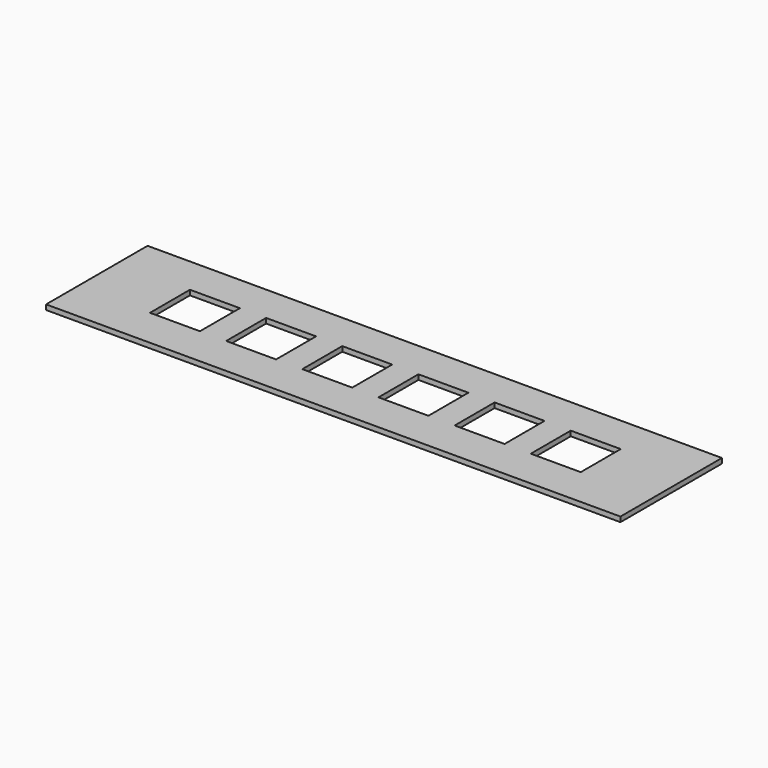
from build123d import *

# Parameters (mm, degrees)
BOX_W        = 115
BOX_H        = 25.4
BOX_DEPTH    = 1
SKETCH_W     = 10
SKETCH_H     = 10
POCKET_DEPTH = 1.001


with BuildPart() as part:
    # Box → Box (new body)
    with BuildSketch(Plane.XY):
        with Locations((57.5, 12.7)):
            Rectangle(BOX_W, BOX_H)
    extrude(amount=BOX_DEPTH)

    # Sketch (on Face6 of BaseFeature) → Pocket (cut, through all)
    with BuildSketch(Plane.XY.offset(1)):
        with Locations((19.46749, 12.921716)):
            Rectangle(SKETCH_W, SKETCH_H)
        with Locations((34.726053, 12.90977)):
            Rectangle(SKETCH_W, SKETCH_H)
        with Locations((49.984616, 12.897824)):
            Rectangle(SKETCH_W, SKETCH_H)
        with Locations((65.243179, 12.885878)):
            Rectangle(SKETCH_W, SKETCH_H)
        with Locations((80.501742, 12.873932)):
            Rectangle(SKETCH_W, SKETCH_H)
        with Locations((95.760305, 12.861986)):
            Rectangle(SKETCH_W, SKETCH_H)
    extrude(amount=-POCKET_DEPTH, mode=Mode.SUBTRACT)


solid = part.part
